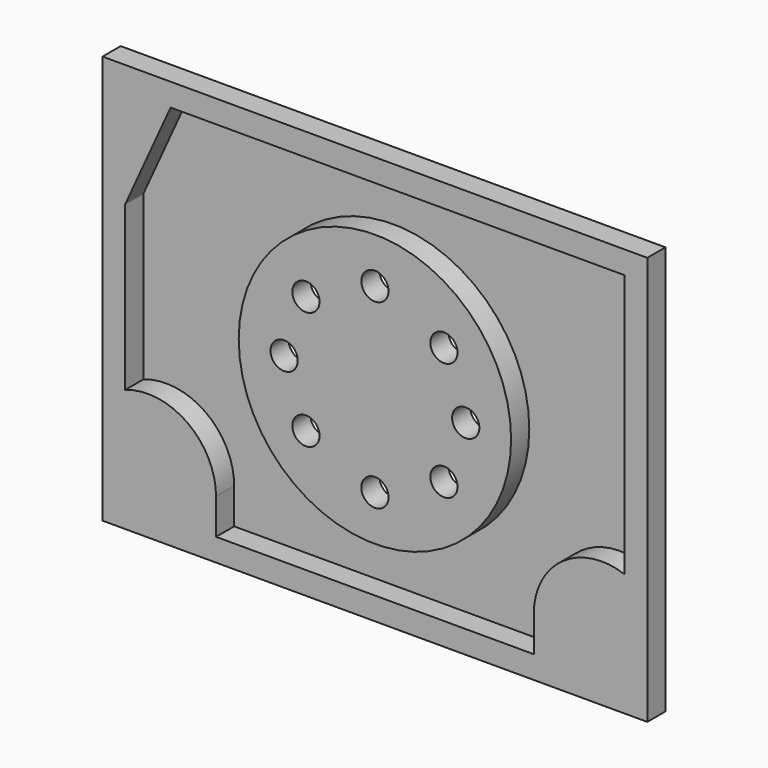
from build123d import *

# Parameters (mm, degrees)
F0_W     = 120
F0_H     = 90
F1_DEPTH = 5
F2_DEPTH = 5
F0_R     = 3
F3_DEPTH = 25
F4_DEPTH = 5
F5_DEPTH = 5


with BuildPart() as f1:
    # F0 (on Front) → F1 (new body)
    with BuildSketch(Plane.XZ):
        Rectangle(F0_W, F0_H)
        with BuildLine():
            Line((-55, -18), (-55, 18))
            Line((-55, 18), (-45, 40))
            Line((-45, 40), (55, 40))
            Line((55, 40), (55, 0))
            Line((55, 0), (55, -18))
            ThreePointArc((55, -18), (41.339746, -19.894687), (35, -32.142136))
            Line((35, -32.142136), (35, -40))
            Line((35, -40), (-35, -40))
            Line((-35, -40), (-35, -32.142136))
            ThreePointArc((-35, -32.142136), (-41.339746, -19.894687), (-55, -18))
        make_face(mode=Mode.SUBTRACT)
    extrude(amount=F1_DEPTH)

    # F0 (on Front) → F2 (join)
    with BuildSketch(Plane.XZ):
        with BuildLine():
            Line((-45, 40), (-55, 18))
            Line((-55, 18), (-55, -18))
            ThreePointArc((-55, -18), (-41.339746, -19.894687), (-35, -32.142136))
            Line((-35, -32.142136), (-35, -40))
            Line((-35, -40), (35, -40))
            Line((35, -40), (35, -32.142136))
            ThreePointArc((35, -32.142136), (41.339746, -19.894687), (55, -18))
            Line((55, -18), (55, 0))
            Line((55, 0), (55, 40))
            Line((55, 40), (-45, 40))
        make_face()
        with BuildLine():
            ThreePointArc((30, 0), (0, -30), (-30, 0))
            ThreePointArc((-30, 0), (0, 30), (30, 0))
        make_face(mode=Mode.SUBTRACT)
    extrude(amount=-F2_DEPTH)

    # F0 (on Front) → F3 (cut)
    with BuildSketch(Plane.XZ):
        with Locations((-15.198684, 13)):
            Circle(F0_R)
        with Locations((0, 20)):
            Circle(F0_R)
        with Locations((15.198684, 13)):
            Circle(F0_R)
        with Locations((20, 0)):
            Circle(F0_R)
        with Locations((15.198684, -13)):
            Circle(F0_R)
        with Locations((0, -20)):
            Circle(F0_R)
        with Locations((-15.198684, -13)):
            Circle(F0_R)
        with Locations((-20, 0)):
            Circle(F0_R)
    extrude(amount=F3_DEPTH, mode=Mode.SUBTRACT)

    # F0 (on Front) → F4 (cut)
    with BuildSketch(Plane.XZ):
        with BuildLine():
            ThreePointArc((30, 0), (0, 30), (-30, 0))
            ThreePointArc((-30, 0), (0, -30), (30, 0))
        make_face()
        with Locations((-15.198684, -13)):
            Circle(F0_R, mode=Mode.SUBTRACT)
        with Locations((0, -20)):
            Circle(F0_R, mode=Mode.SUBTRACT)
        with Locations((15.198684, -13)):
            Circle(F0_R, mode=Mode.SUBTRACT)
        with Locations((-20, 0)):
            Circle(F0_R, mode=Mode.SUBTRACT)
        with Locations((-15.198684, 13)):
            Circle(F0_R, mode=Mode.SUBTRACT)
        with Locations((20, 0)):
            Circle(F0_R, mode=Mode.SUBTRACT)
        with Locations((0, 20)):
            Circle(F0_R, mode=Mode.SUBTRACT)
        with Locations((15.198684, 13)):
            Circle(F0_R, mode=Mode.SUBTRACT)
    extrude(amount=-F4_DEPTH, mode=Mode.SUBTRACT)


with BuildPart() as f5:
    # F0 (on Front) → F5 (new body)
    with BuildSketch(Plane.XZ):
        with BuildLine():
            ThreePointArc((30, 0), (0, 30), (-30, 0))
            ThreePointArc((-30, 0), (0, -30), (30, 0))
        make_face()
        with Locations((-15.198684, -13)):
            Circle(F0_R, mode=Mode.SUBTRACT)
        with Locations((0, -20)):
            Circle(F0_R, mode=Mode.SUBTRACT)
        with Locations((15.198684, -13)):
            Circle(F0_R, mode=Mode.SUBTRACT)
        with Locations((-20, 0)):
            Circle(F0_R, mode=Mode.SUBTRACT)
        with Locations((-15.198684, 13)):
            Circle(F0_R, mode=Mode.SUBTRACT)
        with Locations((20, 0)):
            Circle(F0_R, mode=Mode.SUBTRACT)
        with Locations((0, 20)):
            Circle(F0_R, mode=Mode.SUBTRACT)
        with Locations((15.198684, 13)):
            Circle(F0_R, mode=Mode.SUBTRACT)
    extrude(amount=F5_DEPTH)


solid = Compound([f1.part, f5.part])
